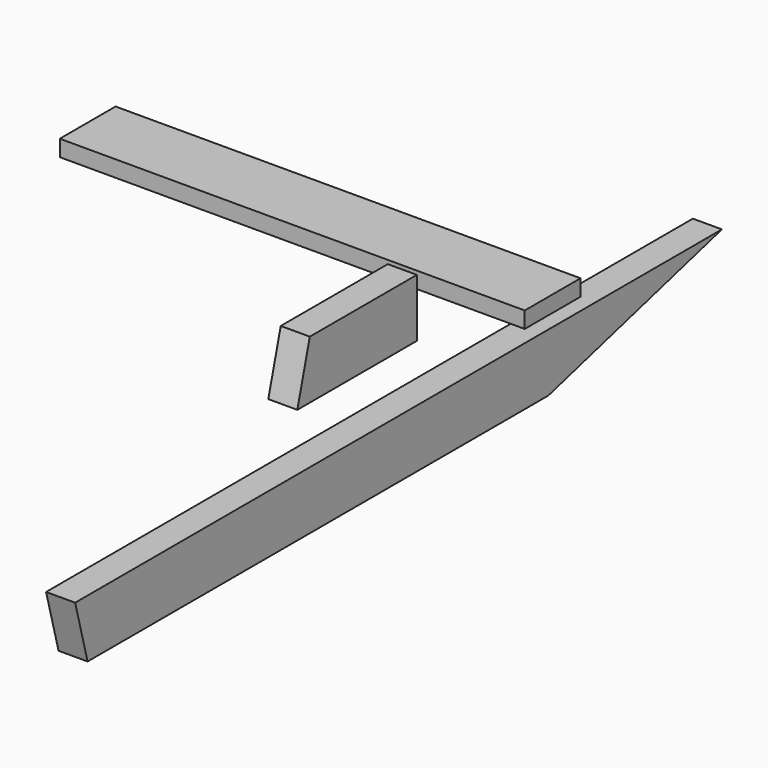
from build123d import *

# Parameters (mm, degrees)
F0_W      = 1391
F0_H      = 100
F1_DEPTH  = 50
F3_DEPTH  = 50.001
F5_DEPTH  = 50.001
F6_W      = 257
F6_H      = 100
F7_DEPTH  = 50
F9_DEPTH  = 50.001
F10_W     = 800
F10_H     = 120
F11_DEPTH = 28


with BuildPart() as f1:
    # F0 (on Right) → F1 (new body)
    with BuildSketch(Plane.YZ):
        with Locations((51.731261, -127.84968)):
            Rectangle(F0_W, F0_H)
    extrude(amount=F1_DEPTH)

    # F2 (on face) → F3 (cut, through all)
    with BuildSketch(Plane.YZ.offset(50)):
        Polygon((-616.97382, -177.84968), (-643.768739, -77.84968), (-643.768739, -177.84968), align=None)
    extrude(amount=-F3_DEPTH, mode=Mode.SUBTRACT)

    # F4 (on face) → F5 (cut, through all)
    with BuildSketch(Plane.YZ.offset(50)):
        Polygon((747.231261, -177.84968), (747.231261, -77.84968), (374.02618, -177.84968), align=None)
    extrude(amount=-F5_DEPTH, mode=Mode.SUBTRACT)


with BuildPart() as f7:
    # F6 (on Right) → F7 (new body)
    with BuildSketch(Plane.YZ):
        with Locations((-37.378192, 69.948979)):
            Rectangle(F6_W, F6_H)
    extrude(amount=F7_DEPTH)

    # F8 (on face) → F9 (cut, through all)
    with BuildSketch(Plane.YZ.offset(50)):
        Polygon((-165.878192, 119.948979), (-165.878192, 19.948979), (-139.083273, 119.948979), align=None)
    extrude(amount=-F9_DEPTH, mode=Mode.SUBTRACT)


with BuildPart() as f11:
    # F10 (on Top) → F11 (new body)
    with BuildSketch(Plane.XY):
        with Locations((-282.45095, 298.736954)):
            Rectangle(F10_W, F10_H)
    extrude(amount=F11_DEPTH)


solid = Compound([f1.part, f7.part, f11.part])
